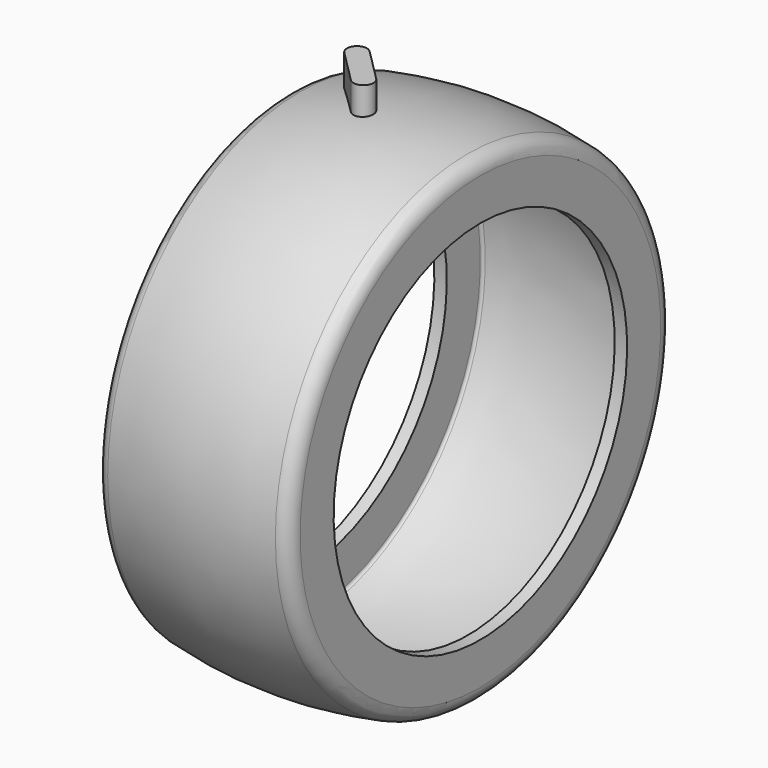
from build123d import *

# Parameters (mm, degrees)
F2_T = -20


with BuildPart() as f1:
    # F0 (on Front) → F1 (revolve)
    with BuildSketch(Plane.XZ):
        with BuildLine():
            Line((-155, 295), (155, 295))
            Line((155, 295), (155, 362.3631934219))
            ThreePointArc((155, 362.3631934219), (149.3050559488, 378.247613928), (134.8148148148, 386.8951635486))
            ThreePointArc((134.8148148148, 386.8951635486), (0, 400), (-134.8148148148, 386.8951635486))
            ThreePointArc((-134.8148148148, 386.8951635486), (-149.3050559488, 378.247613928), (-155, 362.3631934219))
            Line((-155, 362.3631934219), (-155, 295))
        make_face()
    revolve(axis=Axis((-16.9942565262, 0, 0), (-1, 0, 0)))

    # F2
    f2_openings = [f1.faces().sort_by_distance(p)[0] for p in [
        (0, 0, -295),
    ]]
    offset(amount=F2_T, openings=f2_openings)


with BuildPart() as f5:
    # F4 (on offset) → F5 (new body, up to the next surface of F1)
    with BuildSketch(Plane.XY.offset(444)):
        with BuildLine():
            Line((-89.346717088, 31.8641435977), (-36.313708499, -21.1688649913))
            ThreePointArc((-36.313708499, -21.1688649913), (-13.686291501, -21.1688649913), (-13.686291501, 1.4585520066))
            Line((-13.686291501, 1.4585520066), (-66.71930009, 54.4915605956))
            ThreePointArc((-66.71930009, 54.4915605956), (-89.346717088, 54.4915605956), (-89.346717088, 31.8641435977))
        make_face()
    extrude(until=Until.NEXT, target=f1.part, dir=(0, 0, -1))


solid = Compound([f1.part, f5.part])
